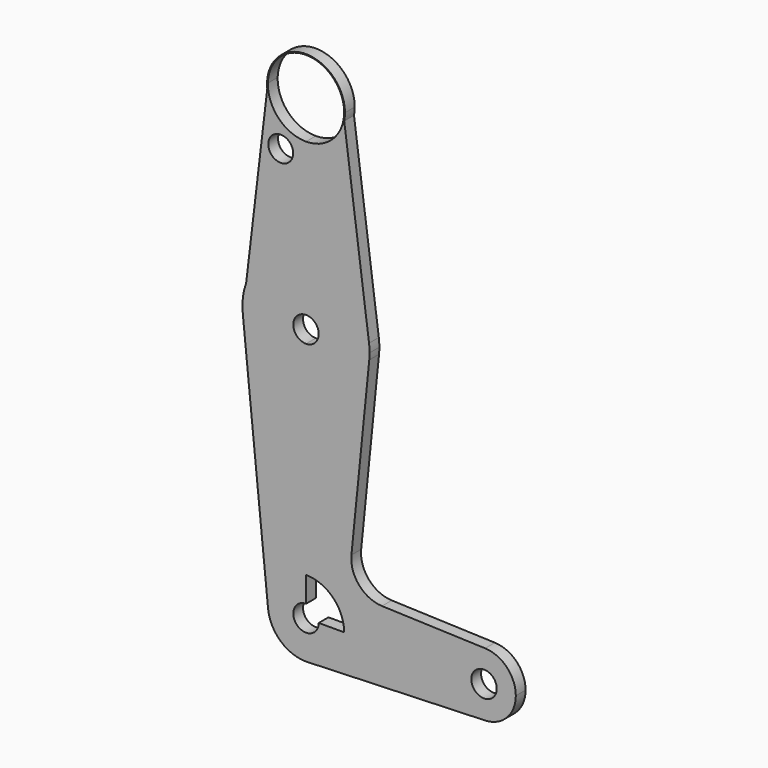
from build123d import *

# Parameters (mm, degrees)
F0_R     = 3.1067841243
F1_DEPTH = 3.048


with BuildPart() as f1:
    # F0 (on Front) → F1 (new body)
    with BuildSketch(Plane.XZ):
        with BuildLine():
            ThreePointArc((9.5430991705, 65.6263607548), (9.6837015082, 66.5725566713), (9.730720418, 67.527985869))
            ThreePointArc((9.730720418, 67.527985869), (-0.5252804261, 77.2445181891), (-9.6740094009, 66.4789568109))
            Line((-9.6740094009, 66.4789568109), (-9.5222295165, 67.7577031639))
            ThreePointArc((-9.5222295165, 67.7577031639), (0.1148670004, 77.052293223), (9.525, 67.527985869))
            ThreePointArc((9.525, 67.527985869), (9.5061490835, 66.9290245991), (9.4496709495, 66.3324341363))
            Line((9.4496709495, 66.3324341363), (9.5430991705, 65.6263607548))
        make_face()
        with BuildLine():
            Line((-9.5222295165, 67.7577031639), (-9.6740094009, 66.4789568109))
            ThreePointArc((-9.6740094009, 66.4789568109), (-6.4991965418, 60.2859306246), (0, 57.7972654511))
            Line((0, 57.7972654511), (0, 58.002985869))
            ThreePointArc((0, 58.002985869), (-6.815925551, 60.8745067879), (-9.5222295165, 67.7577031639))
        make_face()
        with BuildLine():
            ThreePointArc((0, 57.7972654511), (-6.4991965418, 60.2859306246), (-9.6740094009, 66.4789568109))
            Line((-9.6740094009, 66.4789568109), (-14.9430657041, 22.0871287449))
            ThreePointArc((-14.9430657041, 22.0871287449), (-9.1361707473, 29.7105129372), (0, 32.602985869))
            Line((0, 32.602985869), (0, 57.7972654511))
        make_face()
        with Locations((-6.31888723, 54.3835125864)):
            Circle(F0_R, mode=Mode.SUBTRACT)
        with BuildLine():
            Line((15.7378226334, 18.8104276469), (9.5430991705, 65.6263607548))
            ThreePointArc((9.5430991705, 65.6263607548), (6.1718205388, 60.0049844009), (0, 57.7972654511))
            Line((0, 57.7972654511), (0, 32.602985869))
            ThreePointArc((0, 32.602985869), (10.4631941054, 28.6668800436), (15.7378226334, 18.8104276469))
        make_face()
        with BuildLine():
            ThreePointArc((0, 57.7972654511), (6.1718205388, 60.0049844009), (9.5430991705, 65.6263607548))
            Line((9.5430991705, 65.6263607548), (9.4496709495, 66.3324341363))
            ThreePointArc((9.4496709495, 66.3324341363), (6.2983329043, 60.3825938135), (0, 58.002985869))
            Line((0, 58.002985869), (0, 57.7972654511))
        make_face()
        with BuildLine():
            Line((-15.7823944455, 15.0157795246), (-14.9430657041, 22.0871287449))
            ThreePointArc((-14.9430657041, 22.0871287449), (-15.7643417338, 18.5991231436), (-15.7823944455, 15.0157795246))
        make_face()
        with BuildLine():
            ThreePointArc((0, 32.602985869), (-9.1361707473, 29.7105129372), (-14.9430657041, 22.0871287449))
            Line((-14.9430657041, 22.0871287449), (-15.7823944455, 15.0157795246))
            ThreePointArc((-15.7823944455, 15.0157795246), (-10.602696574, 4.9128070571), (0, 0.852985869))
            Line((0, 0.852985869), (0, 13.552985869))
            ThreePointArc((0, 13.552985869), (-3.175, 16.727985869), (0, 19.902985869))
            Line((0, 19.902985869), (0, 32.602985869))
        make_face()
        with BuildLine():
            ThreePointArc((15.875, 16.727985869), (15.8406685355, 17.7714633949), (15.7378226334, 18.8104276469))
            ThreePointArc((15.7378226334, 18.8104276469), (10.4631941054, 28.6668800436), (0, 32.602985869))
            Line((0, 32.602985869), (0, 19.902985869))
            ThreePointArc((0, 19.902985869), (2.2450640303, 18.9730498993), (3.175, 16.727985869))
            ThreePointArc((3.175, 16.727985869), (2.2450640303, 14.4829218388), (0, 13.552985869))
            Line((0, 13.552985869), (0, 0.852985869))
            ThreePointArc((0, 0.852985869), (10.6492737428, 4.9547707708), (15.7954255641, 15.140485869))
            ThreePointArc((15.7954255641, 15.140485869), (15.8550939106, 15.933239315), (15.875, 16.727985869))
        make_face()
        with BuildLine():
            ThreePointArc((0, 0.852985869), (-10.602696574, 4.9128070571), (-15.7823944455, 15.0157795246))
            Line((-15.7823944455, 15.0157795246), (-9.4772628179, -47.7244397085))
            ThreePointArc((-9.4772628179, -47.7244397085), (-7.0639039711, -40.3824221497), (0, -37.247014131))
            Line((0, -37.247014131), (0, 0.852985869))
        make_face()
        with BuildLine():
            ThreePointArc((15.7954255641, 15.140485869), (10.6492737428, 4.9547707708), (0, 0.852985869))
            Line((0, 0.852985869), (0, -37.247014131))
            ThreePointArc((0, -37.247014131), (6.7351920908, -40.0368220402), (9.525, -46.772014131))
            Line((9.525, -46.772014131), (36.5125, -46.772014131))
            ThreePointArc((36.5125, -46.772014131), (38.9380895153, -41.060381347), (44.7324052746, -38.8395395164))
            Line((44.7324052746, -38.8395395164), (18.968327868, -37.9223085504))
            ThreePointArc((18.968327868, -37.9223085504), (13.2612039825, -35.2045512351), (11.3408358685, -29.1821219764))
            Line((11.3408358685, -29.1821219764), (15.7954255641, 15.140485869))
        make_face()
        with BuildLine():
            ThreePointArc((0, -37.247014131), (-7.0639039711, -40.3824221497), (-9.4772628179, -47.7244397085))
            ThreePointArc((-9.4772628179, -47.7244397085), (-6.3895919813, -53.8359181021), (0, -56.297014131))
            Line((0, -56.297014131), (0.6773435479, -56.2728999169))
            ThreePointArc((0.6773435479, -56.2728999169), (6.9705567315, -53.2633132192), (9.525, -46.772014131))
            Line((9.525, -46.772014131), (3.175, -46.772014131))
            ThreePointArc((3.175, -46.772014131), (-2.2450640303, -49.0170781612), (0, -43.597014131))
            Line((0, -43.597014131), (0, -37.247014131))
        make_face()
        with BuildLine():
            Line((0.6773435479, -56.2728999169), (0, -56.297014131))
            ThreePointArc((0, -56.297014131), (0.3388863295, -56.2909836685), (0.6773435479, -56.2728999169))
        make_face()
        with BuildLine():
            Line((36.5125, -46.772014131), (9.525, -46.772014131))
            ThreePointArc((9.525, -46.772014131), (6.9705567315, -53.2633132192), (0.6773435479, -56.2728999169))
            Line((0.6773435479, -56.2728999169), (44.7324052746, -54.7044887455))
            ThreePointArc((44.7324052746, -54.7044887455), (38.9380895153, -52.4836469149), (36.5125, -46.772014131))
        make_face()
        with BuildLine():
            ThreePointArc((44.7324052746, -38.8395395164), (38.9380895153, -41.060381347), (36.5125, -46.772014131))
            ThreePointArc((36.5125, -46.772014131), (38.9380895153, -52.4836469149), (44.7324052746, -54.7044887455))
            ThreePointArc((44.7324052746, -54.7044887455), (50.1616327839, -52.2839246157), (52.3875, -46.772014131))
            ThreePointArc((52.3875, -46.772014131), (50.1616327839, -41.2601036462), (44.7324052746, -38.8395395164))
        make_face()
        with BuildLine():
            ThreePointArc((47.625, -46.772014131), (44.45, -49.947014131), (41.275, -46.772014131))
            ThreePointArc((41.275, -46.772014131), (44.45, -43.597014131), (47.625, -46.772014131))
        make_face(mode=Mode.SUBTRACT)
    extrude(amount=F1_DEPTH)


solid = f1.part
